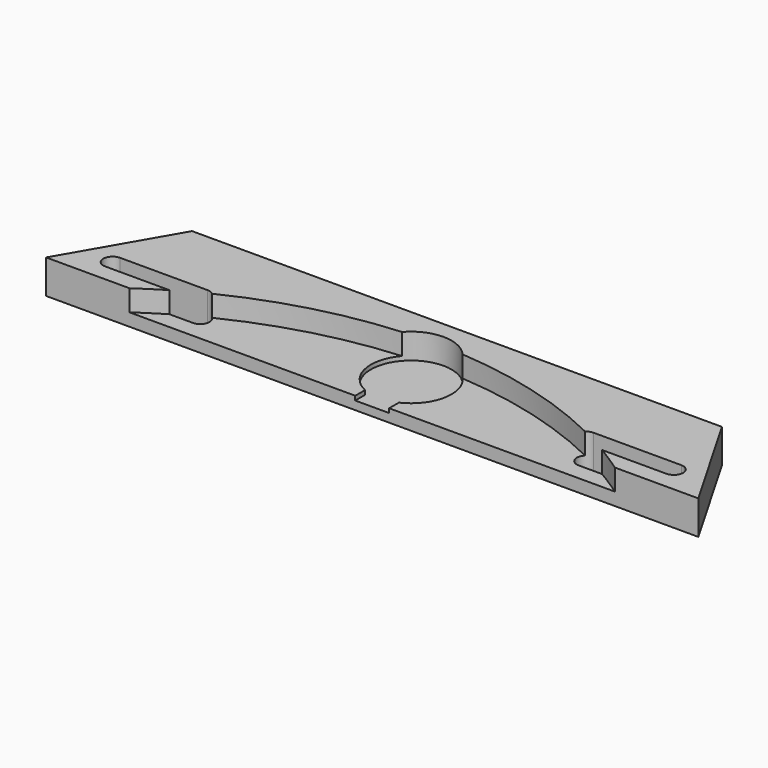
from build123d import *

# Parameters (mm, degrees)
F2_W          = 125
F2_H          = 25
F3_DEPTH      = 8
F4_DEPTH      = 25
F6_DEPTH      = 1
F6_DEPTH_BACK = 25
F8_DEPTH      = 5
F10_DEPTH     = 25


with BuildPart() as f3:
    # F2 (on offset) → F3 (new body)
    with BuildSketch(Plane.XY.offset(-3)):
        with Locations((0, 94.5)):
            Rectangle(F2_W, F2_H)
        Polygon((-62.5, 82), (-62.5, 107), (-76.9337567297, 82), align=None)
        Polygon((76.9337567297, 82), (62.5, 107), (62.5, 82), align=None)
    extrude(amount=F3_DEPTH)

    # F0 (on Top) → F4 (cut)
    with BuildSketch(Plane.XY):
        with BuildLine():
            Line((-90.4997997897, 42.5415824579), (90.4997997897, 42.5415824579))
            ThreePointArc((90.4997997897, 42.5415824579), (0, 100), (-90.4997997897, 42.5415824579))
        make_face()
    extrude(amount=F4_DEPTH, mode=Mode.SUBTRACT)

    # F5 (on Top) → F6 (cut, two sides)
    with BuildSketch(Plane.XY) as f6_sk:
        with BuildLine():
            Line((4, 82), (4, 84.8831560302))
            ThreePointArc((4, 84.8831560302), (0, 103), (-4, 84.8831560302))
            Line((-4, 84.8831560302), (-4, 82))
            Line((-4, 82), (4, 82))
        make_face()
    extrude(amount=-F6_DEPTH, mode=Mode.SUBTRACT)
    extrude(f6_sk.sketch, amount=F6_DEPTH_BACK, mode=Mode.SUBTRACT)

    # F7 (on face) → F8 (cut)
    with BuildSketch(Plane.XY.offset(5)):
        with BuildLine():
            Line((62.5, 207), (58.7661641518, 207))
            ThreePointArc((58.7661641518, 207), (49.6095920415, 196.0748240465), (51.8682665386, 182))
            Line((51.8682665386, 182), (76.9337567297, 182))
            Line((76.9337567297, 182), (62.5, 207))
        make_face()
        with BuildLine():
            ThreePointArc((-51.8682665386, 182), (-49.6095920415, 196.0748240465), (-58.7661641518, 207))
            Line((-58.7661641518, 207), (-62.5, 207))
            Line((-62.5, 207), (-76.9337567297, 182))
            Line((-76.9337567297, 182), (-51.8682665386, 182))
        make_face()
    extrude(amount=-F8_DEPTH, mode=Mode.SUBTRACT)

    # F9 (on offset) → F10 (cut)
    with BuildSketch(Plane.XY.offset(-3)):
        with BuildLine():
            Line((55.8554306626, 86), (66.1950417228, 86))
            ThreePointArc((66.1950417228, 86), (68.3950417228, 88.2), (66.1950417228, 90.4))
            Line((66.1950417228, 90.4), (55.8554306626, 90.4))
            Line((55.8554306626, 90.4), (45.5158196025, 90.4))
            ThreePointArc((45.5158196025, 90.4), (43.3158196025, 88.2), (45.5158196025, 86))
            Line((45.5158196025, 86), (55.8554306626, 86))
        make_face()
        with BuildLine():
            ThreePointArc((-66.1950417228, 90.4), (-68.3950417228, 88.2), (-66.1950417228, 86))
            Line((-66.1950417228, 86), (-55.8554306626, 86))
            Line((-55.8554306626, 86), (-45.5158196025, 86))
            ThreePointArc((-45.5158196025, 86), (-43.3158196025, 88.2), (-45.5158196025, 90.4))
            Line((-45.5158196025, 90.4), (-55.8554306626, 90.4))
            Line((-55.8554306626, 90.4), (-66.1950417228, 90.4))
        make_face()
    extrude(amount=F10_DEPTH, mode=Mode.SUBTRACT)


solid = f3.part
